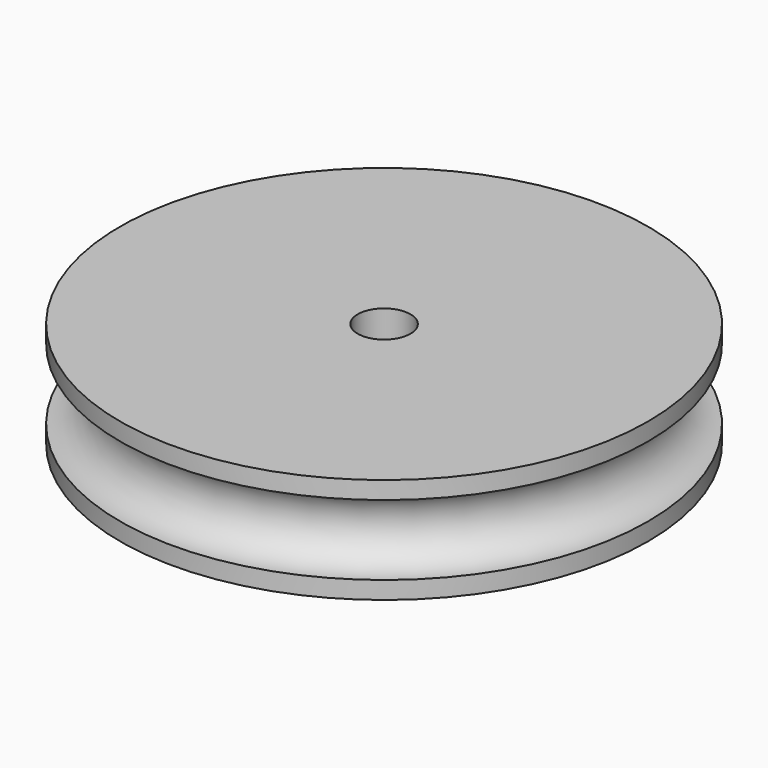
from build123d import *

# Parameters (mm, degrees)
CYLINDER001_R     = 1.5
CYLINDER001_DEPTH = 10
TORUS_R           = 2
CYLINDER_R        = 15
CYLINDER_DEPTH    = 6


with BuildPart() as cilindro001:
    # Cylinder001 → Cylinder001 (new body)
    with BuildSketch(Plane.XY):
        Circle(CYLINDER001_R)
    extrude(amount=CYLINDER001_DEPTH)


with BuildPart() as toro:
    # Torus → Torus (revolve)
    with BuildSketch(Plane(origin=(0, 0, 3), x_dir=(1, 0, 0), z_dir=(0, -1, 0))):
        with Locations((15, 0)):
            Circle(TORUS_R)
    revolve(axis=Axis((0, 0, 3), (0, 0, 1)))


with BuildPart() as cut001:
    # Cylinder → Cylinder (new body)
    with BuildSketch(Plane.XY):
        Circle(CYLINDER_R)
    extrude(amount=CYLINDER_DEPTH)

    # Cut: cut Toro
    add(toro.part, mode=Mode.SUBTRACT)

    # Cut001: cut Cilindro001
    add(cilindro001.part, mode=Mode.SUBTRACT)


solid = cut001.part
